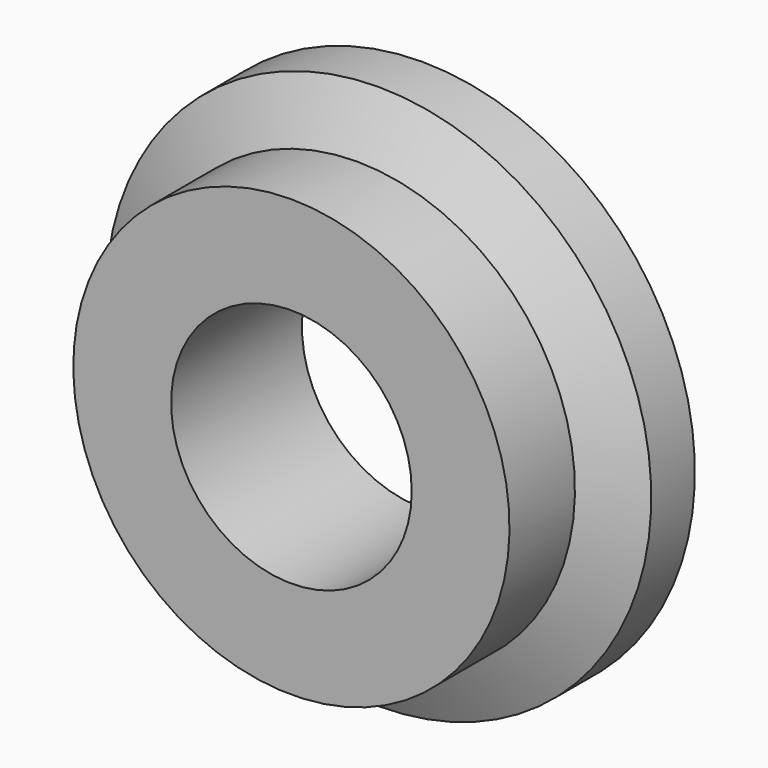
from build123d import *

# Parameters (mm, degrees)
F2_R     = 11.21005
F3_DEPTH = 15.241


with BuildPart() as f1:
    # F0 (on Right) → F1 (revolve)
    with BuildSketch(Plane.YZ):
        Polygon((0, 45.014441), (-7.62, 45.014441), (-7.62, 24.694441), (7.62, 24.694441), (7.62, 50.094441), (2.54, 50.094441), align=None)
    revolve(axis=Axis((0, 0, 24.694441), (0, -1, 0)))

    # F2 (on face) → F3 (cut, through all)
    with BuildSketch(Plane.XZ.offset(7.62)):
        with Locations((0, 24.694441)):
            Circle(F2_R)
    extrude(amount=-F3_DEPTH, mode=Mode.SUBTRACT)


solid = f1.part
